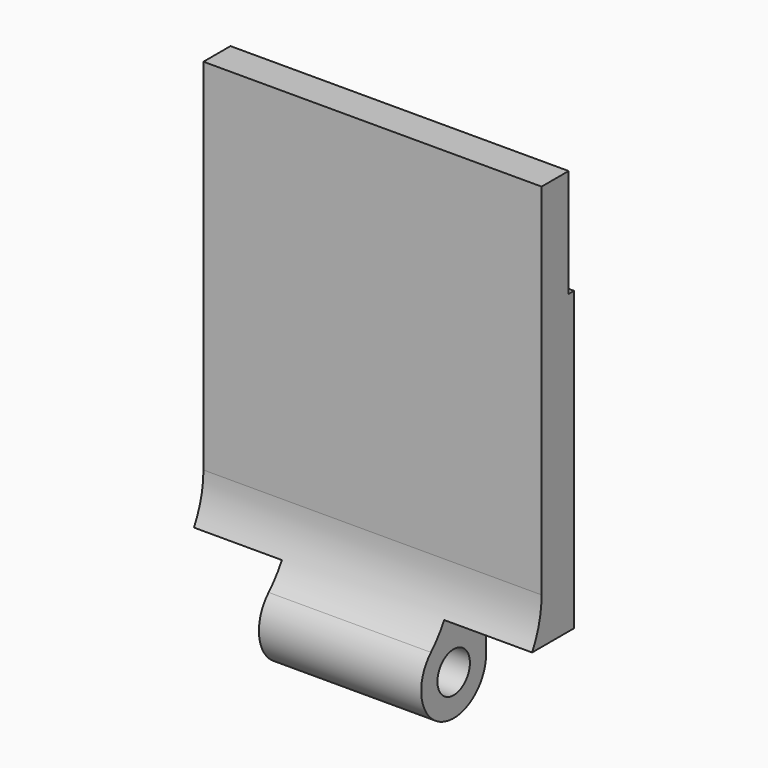
from build123d import *

# Parameters (mm, degrees)
F0_R     = 3
F1_DEPTH = 25
F2_W     = 13
F2_H     = 15
F3_DEPTH = 12.5
F4_W     = 1
F4_H     = 16
F5_DEPTH = 30
F6_R     = 14


with BuildPart() as f1:
    # F0 (on Right) → F1 (new body, symmetric)
    with BuildSketch(Plane.YZ):
        with BuildLine():
            Line((-3e-06, 67.431174), (-3e-06, 6))
            ThreePointArc((-3e-06, 6), (-4.242643, -4.242641), (5.999997, 0))
            Line((5.999997, 0), (5.999997, 67.431174))
            Line((5.999997, 67.431174), (-3e-06, 67.431174))
        make_face()
        with Locations((-3e-06, 0)):
            Circle(F0_R, mode=Mode.SUBTRACT)
    extrude(amount=F1_DEPTH, both=True)

    # F2 (on Front) → F3 (cut, symmetric)
    with BuildSketch(Plane.XZ):
        with Locations((-18.5, 0)):
            Rectangle(F2_W, F2_H)
        with Locations((18.5, 0)):
            Rectangle(F2_W, F2_H)
    extrude(amount=F3_DEPTH, both=True, mode=Mode.SUBTRACT)

    # F4 (on Right) → F5 (cut, symmetric)
    with BuildSketch(Plane.YZ):
        with Locations((5.499997, 59.431174)):
            Rectangle(F4_W, F4_H)
    extrude(amount=F5_DEPTH, both=True, mode=Mode.SUBTRACT)

    # F6
    f6_edges = [f1.edges().sort_by_distance(p)[0] for p in [
        (0, -3e-06, 6),
    ]]
    fillet(f6_edges, radius=F6_R)


solid = f1.part
